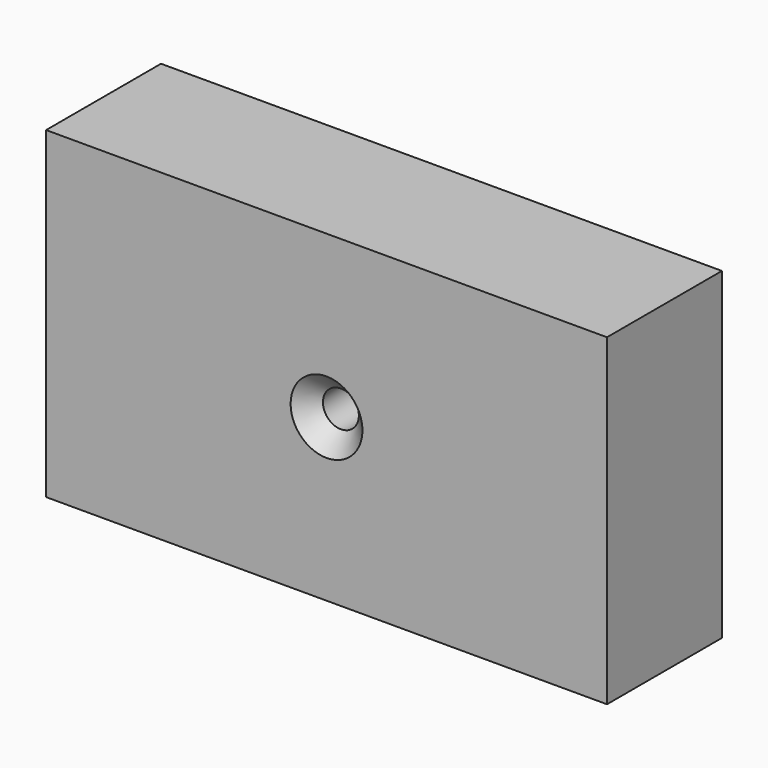
from build123d import *

# Parameters (mm, degrees)
F0_W           = 99.174038
F0_H           = 57.130144
F1_DEPTH       = 25.4
F2_D           = 6.35
F2_CSINK_D     = 12.7
F2_CSINK_ANGLE = 90


with BuildPart() as f1:
    # F0 (on Front) → F1 (new body)
    with BuildSketch(Plane.XZ):
        Rectangle(F0_W, F0_H)
    extrude(amount=-F1_DEPTH)

    # F2 (through all)
    with Locations(Plane.XZ):
        with Locations((0, 0)):
            CounterSinkHole(F2_D / 2, F2_CSINK_D / 2, counter_sink_angle=F2_CSINK_ANGLE)


solid = f1.part
